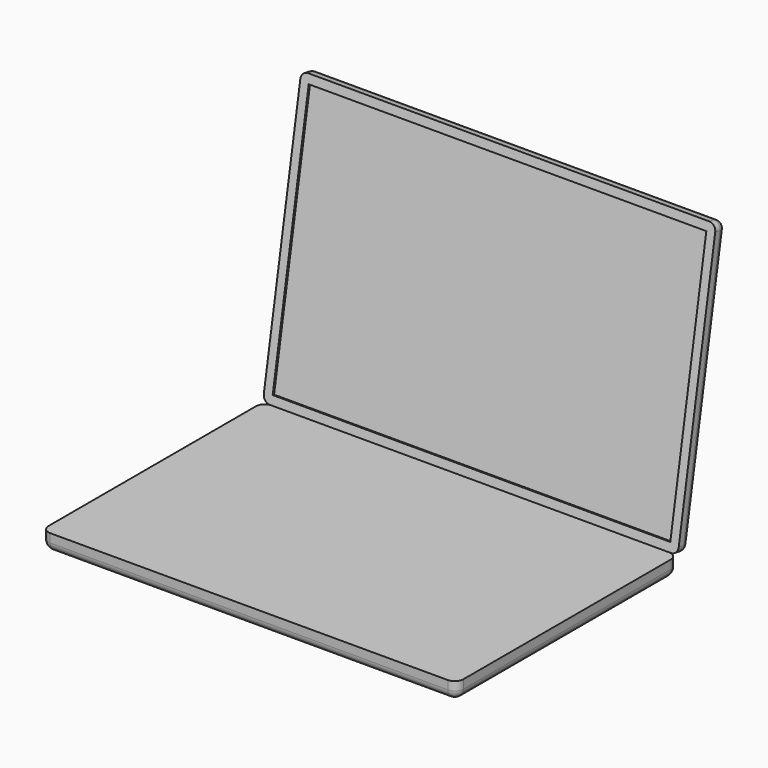
from build123d import *

# Parameters (mm, degrees)
F0_W     = 304.8
F0_H     = 203.2
F1_DEPTH = 12.7
F2_W     = 304.8
F2_H     = 203.2
F3_DEPTH = 9.525
F4_ANGLE = -100
F5_W     = 292.1
F5_H     = 190.5
F6_DEPTH = 1.27
F7_R     = 6.35
F8_R     = 5.08


with BuildPart() as f1:
    # F0 (on Top) → F1 (new body)
    with BuildSketch(Plane.XY):
        with Locations((0, 101.6)):
            Rectangle(F0_W, F0_H)
    extrude(amount=F1_DEPTH)

    # F7
    f7_edges = [f1.edges().sort_by_distance(p)[0] for p in [
        (-152.4, 101.6, 0),
        (0, 0, 0),
        (152.4, 101.6, 0),
        (0, 203.2, 0),
        (152.4, 0, 6.35),
        (152.4, 203.2, 6.35),
        (-152.4, 0, 6.35),
        (-152.4, 203.2, 6.35),
    ]]
    fillet(f7_edges, radius=F7_R)


with BuildPart() as f3:
    # F2 (on face) → F3 (new body)
    with BuildSketch(Plane.XY.offset(12.7)):
        with Locations((0, 101.6)):
            Rectangle(F2_W, F2_H)
    extrude(amount=F3_DEPTH)


with BuildPart() as f3_1:
    # F4: moved
    add(f3.part.rotate(Axis((0, 203.2, 12.7), (1, 0, 0)), F4_ANGLE))

    # F5 (on face) → F6 (cut)
    with BuildSketch(Plane(origin=(0, 194.9009423617, -34.3662947039), x_dir=(1, 0, 0), z_dir=(0, -0.984807753, 0.1736481777))):
        with Locations((0, 149.3923681652)):
            Rectangle(F5_W, F5_H)
    extrude(amount=-F6_DEPTH, mode=Mode.SUBTRACT)

    # F8
    f8_edges = [f3_1.edges().sort_by_distance(p)[0] for p in [
        (-152.4, 230.222949, 111.102469),
        (0, 247.865604, 211.158937),
        (152.4, 230.222949, 111.102469),
        (0, 212.580294, 11.046001),
        (152.4, 243.175457, 211.985936),
        (152.4, 207.890147, 11.873001),
        (-152.4, 243.175457, 211.985936),
        (-152.4, 207.890147, 11.873001),
    ]]
    fillet(f8_edges, radius=F8_R)


solid = Compound([f1.part, f3_1.part])
